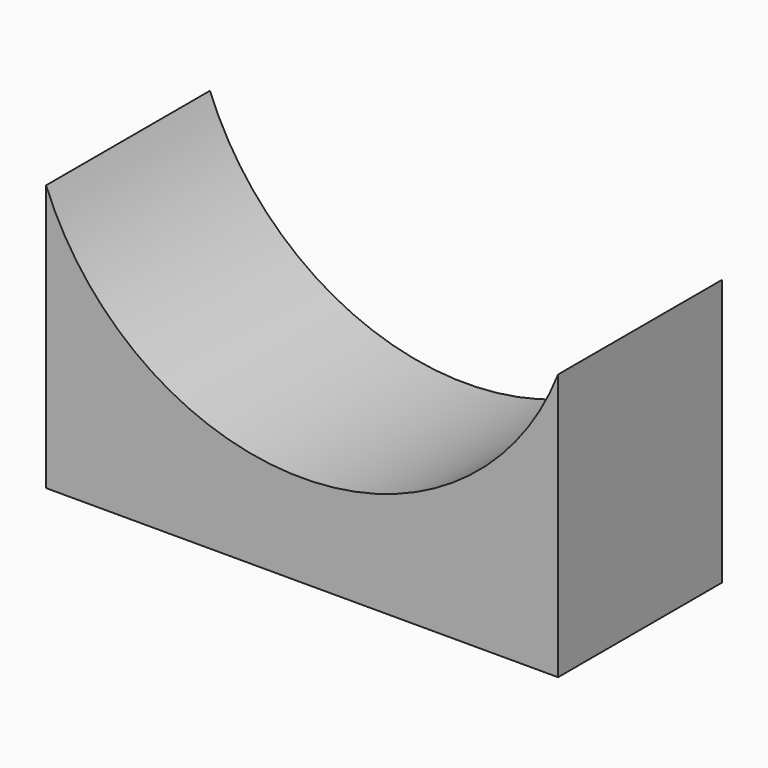
from build123d import *

# Parameters (mm, degrees)
F1_DEPTH = 20


with BuildPart() as f1:
    # F0 (on Front) → F1 (new body, symmetric)
    with BuildSketch(Plane.XZ):
        with BuildLine():
            ThreePointArc((43.632229, 21.080671), (-6.367771, -12.984659), (-56.367771, 21.080671))
            Line((-56.367771, 21.080671), (-56.367771, -30.984659))
            Line((-56.367771, -30.984659), (43.632229, -30.984659))
            Line((43.632229, -30.984659), (43.632229, 21.080671))
        make_face()
    extrude(amount=F1_DEPTH, both=True)


solid = f1.part
